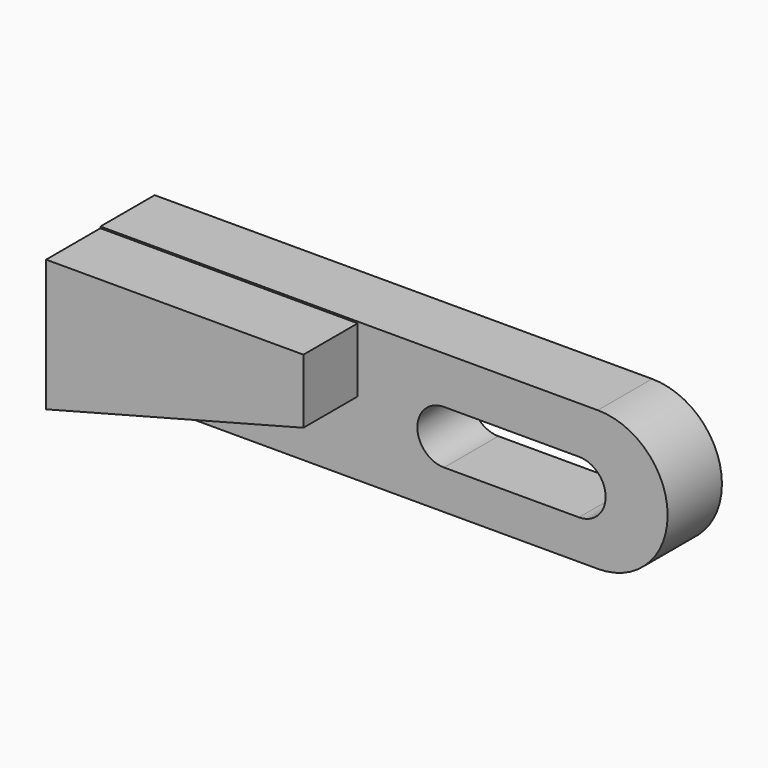
from build123d import *

# Parameters (mm, degrees)
F1_DEPTH = 25.4
F3_DEPTH = 12.7


with BuildPart() as f1:
    # F0 (on Front) → F1 (new body)
    with BuildSketch(Plane.XZ):
        Polygon((-9.248863, 8.514826), (-57.401668, 8.514826), (-57.401668, -16.148807), (-9.248863, -3.523376), align=None)
    extrude(amount=F1_DEPTH)

    # F2 (on Front) → F3 (join)
    with BuildSketch(Plane.XZ):
        with BuildLine():
            Line((35.674185, 8.808441), (-57.401668, 8.808441))
            Line((-57.401668, 8.808441), (-57.401668, -17.323267))
            Line((-57.401668, -17.323267), (35.674185, -17.323267))
            ThreePointArc((35.674185, -17.323267), (48.740038, -4.257413), (35.674185, 8.808441))
        make_face()
        with BuildLine():
            ThreePointArc((6.899945, -9.982899), (1.908496, -4.991449), (6.899945, 0))
            Line((6.899945, 0), (32.150805, 0))
            ThreePointArc((32.150805, 0), (37.142254, -4.991449), (32.150805, -9.982899))
            Line((32.150805, -9.982899), (6.899945, -9.982899))
        make_face(mode=Mode.SUBTRACT)
    extrude(amount=F3_DEPTH)


solid = f1.part
